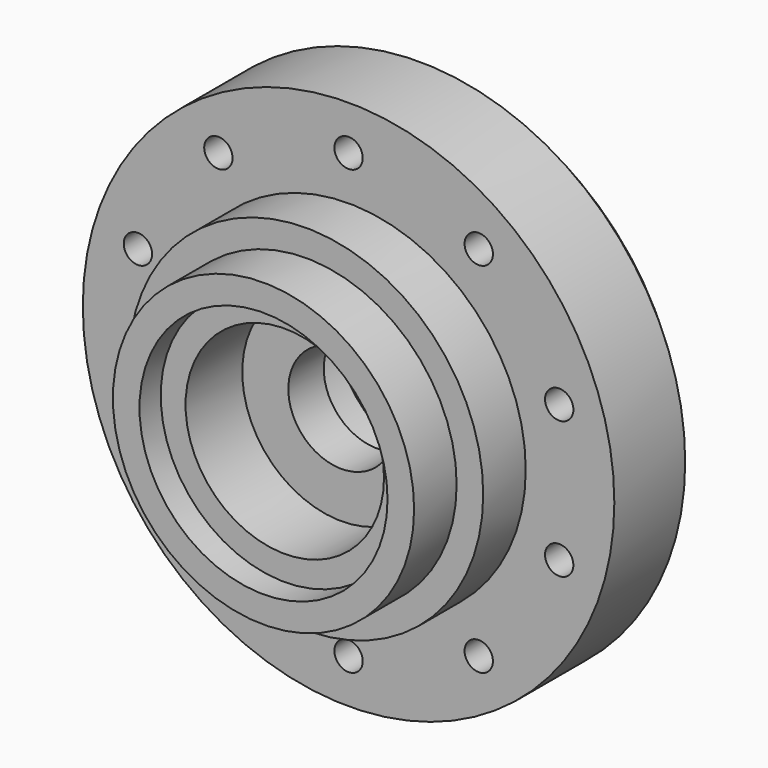
from build123d import *

# Parameters (mm, degrees)
CYLINDER116_R              = 8.5
CYLINDER116_DEPTH          = 3
CYLINDER115_R              = 10
CYLINDER115_DEPTH          = 3
CYLINDER110_R              = 0.8
CYLINDER110_DEPTH          = 20
CYLINDER107_R              = 0.8
CYLINDER107_DEPTH          = 20
FUSION028_PLACEMENT_ANGLE  = 54
CYLINDER112_R              = 0.8
CYLINDER112_DEPTH          = 20
CYLINDER111_R              = 0.8
CYLINDER111_DEPTH          = 20
FUSION106_PLACEMENT_ANGLE  = 162
CYLINDER114_R              = 0.8
CYLINDER114_DEPTH          = 20
CYLINDER113_R              = 0.8
CYLINDER113_DEPTH          = 20
FUSION107_PLACEMENT_ANGLE  = 126
CYLINDER106_R              = 0.8
CYLINDER106_DEPTH          = 20
CYLINDER105_R              = 0.8
CYLINDER105_DEPTH          = 20
FUSION108_PLACEMENT_ANGLE  = 90
CYLINDER108_R              = 0.8
CYLINDER108_DEPTH          = 20
CYLINDER104_R              = 0.8
CYLINDER104_DEPTH          = 20
FUSION105_PLACEMENT_ANGLE  = 18
CYLINDER062_R              = 3
CYLINDER062_DEPTH          = 4
CYLINDER061_R              = 5.6
CYLINDER061_DEPTH          = 4
CYLINDER060_R              = 5.6
CYLINDER060_DEPTH          = 4
CYLINDER103_R              = 7
CYLINDER103_DEPTH          = 1.5
CYLINDER109_R              = 10
CYLINDER109_DEPTH          = 6
CYLINDER058_R              = 15
CYLINDER058_DEPTH          = 6
CHAMFER002_SIZE            = 1
CHAMFER002_PLACEMENT_ANGLE = 90


with BuildPart() as cylinder116:
    # Cylinder116 → Cylinder116 (new body)
    with BuildSketch(Plane.XY.offset(11)):
        Circle(CYLINDER116_R)
    extrude(amount=CYLINDER116_DEPTH)


with BuildPart() as cut037:
    # Cylinder115 → Cylinder115 (new body)
    with BuildSketch(Plane.XY.offset(11)):
        Circle(CYLINDER115_R)
    extrude(amount=CYLINDER115_DEPTH)

    # Cut037: cut Cylinder116
    add(cylinder116.part, mode=Mode.SUBTRACT)


with BuildPart() as cylinder110:
    # Cylinder110 → Cylinder110 (new body)
    with BuildSketch(Plane(origin=(-12.5, 0, 13), x_dir=(1, 0, 0), z_dir=(0, 0, 1))):
        Circle(CYLINDER110_R)
    extrude(amount=CYLINDER110_DEPTH)


with BuildPart() as fusion028:
    # Cylinder107 → Cylinder107 (new body)
    with BuildSketch(Plane(origin=(12.5, 0, 13), x_dir=(1, 0, 0), z_dir=(0, 0, 1))):
        Circle(CYLINDER107_R)
    extrude(amount=CYLINDER107_DEPTH)

    # Fusion028: union Cylinder110
    add(cylinder110.part)


with BuildPart() as fusion028_1:
    # Fusion028 placement: moved
    add(fusion028.part.rotate(Axis((0, 0, 0), (0, 0, 1)), FUSION028_PLACEMENT_ANGLE))


with BuildPart() as cylinder112:
    # Cylinder112 → Cylinder112 (new body)
    with BuildSketch(Plane(origin=(-12.5, 0, 13), x_dir=(1, 0, 0), z_dir=(0, 0, 1))):
        Circle(CYLINDER112_R)
    extrude(amount=CYLINDER112_DEPTH)


with BuildPart() as fusion106:
    # Cylinder111 → Cylinder111 (new body)
    with BuildSketch(Plane(origin=(12.5, 0, 13), x_dir=(1, 0, 0), z_dir=(0, 0, 1))):
        Circle(CYLINDER111_R)
    extrude(amount=CYLINDER111_DEPTH)

    # Fusion106: union Cylinder112
    add(cylinder112.part)


with BuildPart() as fusion106_1:
    # Fusion106 placement: moved
    add(fusion106.part.rotate(Axis((0, 0, 0), (0, 0, 1)), FUSION106_PLACEMENT_ANGLE))


with BuildPart() as cylinder114:
    # Cylinder114 → Cylinder114 (new body)
    with BuildSketch(Plane(origin=(-12.5, 0, 13), x_dir=(1, 0, 0), z_dir=(0, 0, 1))):
        Circle(CYLINDER114_R)
    extrude(amount=CYLINDER114_DEPTH)


with BuildPart() as fusion107:
    # Cylinder113 → Cylinder113 (new body)
    with BuildSketch(Plane(origin=(12.5, 0, 13), x_dir=(1, 0, 0), z_dir=(0, 0, 1))):
        Circle(CYLINDER113_R)
    extrude(amount=CYLINDER113_DEPTH)

    # Fusion107: union Cylinder114
    add(cylinder114.part)


with BuildPart() as fusion107_1:
    # Fusion107 placement: moved
    add(fusion107.part.rotate(Axis((0, 0, 0), (0, 0, 1)), FUSION107_PLACEMENT_ANGLE))


with BuildPart() as cylinder106:
    # Cylinder106 → Cylinder106 (new body)
    with BuildSketch(Plane(origin=(-12.5, 0, 13), x_dir=(1, 0, 0), z_dir=(0, 0, 1))):
        Circle(CYLINDER106_R)
    extrude(amount=CYLINDER106_DEPTH)


with BuildPart() as fusion108:
    # Cylinder105 → Cylinder105 (new body)
    with BuildSketch(Plane(origin=(12.5, 0, 13), x_dir=(1, 0, 0), z_dir=(0, 0, 1))):
        Circle(CYLINDER105_R)
    extrude(amount=CYLINDER105_DEPTH)

    # Fusion108: union Cylinder106
    add(cylinder106.part)


with BuildPart() as fusion108_1:
    # Fusion108 placement: moved
    add(fusion108.part.rotate(Axis((0, 0, 0), (0, 0, 1)), FUSION108_PLACEMENT_ANGLE))


with BuildPart() as cylinder108:
    # Cylinder108 → Cylinder108 (new body)
    with BuildSketch(Plane(origin=(-12.5, 0, 13), x_dir=(1, 0, 0), z_dir=(0, 0, 1))):
        Circle(CYLINDER108_R)
    extrude(amount=CYLINDER108_DEPTH)


with BuildPart() as fusion109:
    # Cylinder104 → Cylinder104 (new body)
    with BuildSketch(Plane(origin=(12.5, 0, 13), x_dir=(1, 0, 0), z_dir=(0, 0, 1))):
        Circle(CYLINDER104_R)
    extrude(amount=CYLINDER104_DEPTH)

    # Fusion105: union Cylinder108
    add(cylinder108.part)


with BuildPart() as fusion109_1:
    # Fusion105 placement: moved
    add(fusion109.part.rotate(Axis((0, 0, 0), (0, 0, 1)), FUSION105_PLACEMENT_ANGLE))

    # Fusion109: union Fusion028, Fusion106, Fusion107, Fusion108
    add(fusion028_1.part)
    add(fusion106_1.part)
    add(fusion107_1.part)
    add(fusion108_1.part)


with BuildPart() as fusion109_2:
    # Fusion109 placement: moved
    add(fusion109_1.part.moved(Location((0, 0, 3))))


with BuildPart() as cylinder062:
    # Cylinder062 → Cylinder062 (new body)
    with BuildSketch(Plane.XY.offset(3)):
        Circle(CYLINDER062_R)
    extrude(amount=CYLINDER062_DEPTH)


with BuildPart() as cylinder061:
    # Cylinder061 → Cylinder061 (new body)
    with BuildSketch(Plane.XY):
        Circle(CYLINDER061_R)
    extrude(amount=CYLINDER061_DEPTH)


with BuildPart() as fusion033:
    # Cylinder060 → Cylinder060 (new body)
    with BuildSketch(Plane.XY.offset(6.5)):
        Circle(CYLINDER060_R)
    extrude(amount=CYLINDER060_DEPTH)

    # Fusion033: union Cylinder062, Cylinder061
    add(cylinder062.part)
    add(cylinder061.part)


with BuildPart() as fusion033_1:
    # Fusion033 placement: moved
    add(fusion033.part.moved(Location((0, 0, 4.5))))


with BuildPart() as cylinder103:
    # Cylinder103 → Cylinder103 (new body)
    with BuildSketch(Plane.XY.offset(3)):
        Circle(CYLINDER103_R)
    extrude(amount=CYLINDER103_DEPTH)


with BuildPart() as cylinder109:
    # Cylinder109 → Cylinder109 (new body)
    with BuildSketch(Plane.XY.offset(3)):
        Circle(CYLINDER109_R)
    extrude(amount=CYLINDER109_DEPTH)


with BuildPart() as hub_wide_left:
    # Cylinder058 → Cylinder058 (new body)
    with BuildSketch(Plane.XY.offset(9)):
        Circle(CYLINDER058_R)
    extrude(amount=CYLINDER058_DEPTH)

    # Fusion110: union Cylinder109
    add(cylinder109.part)

    # Cut034: cut Cylinder103
    add(cylinder103.part, mode=Mode.SUBTRACT)

    # Cut035: cut Fusion033
    add(fusion033_1.part, mode=Mode.SUBTRACT)


with BuildPart() as hub_wide_left_1:
    # Cut035 placement: moved
    add(hub_wide_left.part.moved(Location((0, 0, 8))))

    # Cut036: cut Fusion109
    add(fusion109_2.part, mode=Mode.SUBTRACT)

    # Cut038: cut Cut037
    add(cut037.part, mode=Mode.SUBTRACT)

    # Chamfer002
    chamfer002_edges = [hub_wide_left_1.edges().sort_by_distance(p)[0] for p in [
        (-15, 0, 23),
    ]]
    chamfer(chamfer002_edges, length=CHAMFER002_SIZE)


with BuildPart() as hub_wide_left_2:
    # Chamfer002 placement: moved
    add(hub_wide_left_1.part.moved(Location((0, -88, 0))).rotate(Axis((0, -88, 0), (-1, 0, 0)), CHAMFER002_PLACEMENT_ANGLE))


solid = hub_wide_left_2.part
